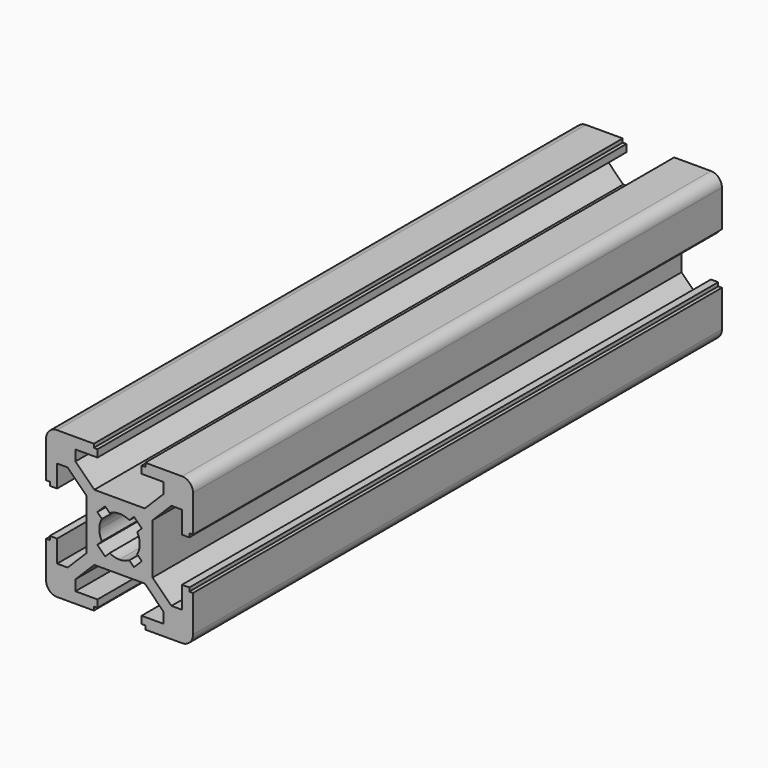
from build123d import *

# Parameters (mm, degrees)
F1_DEPTH = 90


with BuildPart() as f1:
    # F0 (on Front) → F1 (new body)
    with BuildSketch(Plane.XZ):
        with BuildLine():
            Line((3.43934, 4.5), (0, 4.5))
            Line((0, 4.5), (-3.43934, 4.5))
            Line((-3.43934, 4.5), (-6, 7.06066))
            Line((-6, 7.06066), (-6, 8.5))
            Line((-6, 8.5), (-3, 8.5))
            Line((-3, 8.5), (-3, 9.5))
            Line((-3, 9.5), (-3.5, 9.5))
            Line((-3.5, 9.5), (-3.5, 10))
            Line((-3.5, 10), (-8.5, 10))
            ThreePointArc((-8.5, 10), (-9.56066, 9.56066), (-10, 8.5))
            Line((-10, 8.5), (-10, 3.5))
            Line((-10, 3.5), (-9.5, 3.5))
            Line((-9.5, 3.5), (-9.5, 3))
            Line((-9.5, 3), (-8.5, 3))
            Line((-8.5, 3), (-8.5, 6))
            Line((-8.5, 6), (-7.06066, 6))
            Line((-7.06066, 6), (-4.5, 3.43934))
            Line((-4.5, 3.43934), (-4.5, 0))
            Line((-4.5, 0), (-4.5, -3.43934))
            Line((-4.5, -3.43934), (-7.06066, -6))
            Line((-7.06066, -6), (-8.5, -6))
            Line((-8.5, -6), (-8.5, -3))
            Line((-8.5, -3), (-9.5, -3))
            Line((-9.5, -3), (-9.5, -3.5))
            Line((-9.5, -3.5), (-10, -3.5))
            Line((-10, -3.5), (-10, -8.5))
            ThreePointArc((-10, -8.5), (-9.56066, -9.56066), (-8.5, -10))
            Line((-8.5, -10), (-3.5, -10))
            Line((-3.5, -10), (-3.5, -9.5))
            Line((-3.5, -9.5), (-3, -9.5))
            Line((-3, -9.5), (-3, -8.5))
            Line((-3, -8.5), (-6, -8.5))
            Line((-6, -8.5), (-6, -7.06066))
            Line((-6, -7.06066), (-3.43934, -4.5))
            Line((-3.43934, -4.5), (0, -4.5))
            Line((0, -4.5), (3.43934, -4.5))
            Line((3.43934, -4.5), (6, -7.06066))
            Line((6, -7.06066), (6, -8.5))
            Line((6, -8.5), (3, -8.5))
            Line((3, -8.5), (3, -9.5))
            Line((3, -9.5), (3.5, -9.5))
            Line((3.5, -9.5), (3.5, -10))
            Line((3.5, -10), (8.5, -10))
            ThreePointArc((8.5, -10), (9.56066, -9.56066), (10, -8.5))
            Line((10, -8.5), (10, -3.5))
            Line((10, -3.5), (9.5, -3.5))
            Line((9.5, -3.5), (9.5, -3))
            Line((9.5, -3), (8.5, -3))
            Line((8.5, -3), (8.5, -6))
            Line((8.5, -6), (7.06066, -6))
            Line((7.06066, -6), (4.5, -3.43934))
            Line((4.5, -3.43934), (4.5, 0))
            Line((4.5, 0), (4.5, 3.43934))
            Line((4.5, 3.43934), (7.06066, 6))
            Line((7.06066, 6), (8.5, 6))
            Line((8.5, 6), (8.5, 3))
            Line((8.5, 3), (9.5, 3))
            Line((9.5, 3), (9.5, 3.5))
            Line((9.5, 3.5), (10, 3.5))
            Line((10, 3.5), (10, 8.5))
            ThreePointArc((10, 8.5), (9.56066, 9.56066), (8.5, 10))
            Line((8.5, 10), (3.5, 10))
            Line((3.5, 10), (3.5, 9.5))
            Line((3.5, 9.5), (3, 9.5))
            Line((3, 9.5), (3, 8.5))
            Line((3, 8.5), (6, 8.5))
            Line((6, 8.5), (6, 7.06066))
            Line((6, 7.06066), (3.43934, 4.5))
        make_face()
        with BuildLine():
            ThreePointArc((-1.340499, 2.401159), (-0.692573, 2.661361), (0, 2.75))
            ThreePointArc((0, 2.75), (0.692573, 2.661361), (1.340499, 2.401159))
            Line((1.340499, 2.401159), (1.962753, 3.023413))
            Line((1.962753, 3.023413), (3.023413, 1.962753))
            Line((3.023413, 1.962753), (2.401159, 1.340499))
            ThreePointArc((2.401159, 1.340499), (2.661361, 0.692573), (2.75, 0))
            ThreePointArc((2.75, 0), (2.661361, -0.692573), (2.401159, -1.340499))
            Line((2.401159, -1.340499), (3.023413, -1.962753))
            Line((3.023413, -1.962753), (1.962753, -3.023413))
            Line((1.962753, -3.023413), (1.340499, -2.401159))
            ThreePointArc((1.340499, -2.401159), (0.692573, -2.661361), (0, -2.75))
            ThreePointArc((0, -2.75), (-0.692573, -2.661361), (-1.340499, -2.401159))
            Line((-1.340499, -2.401159), (-1.962753, -3.023413))
            Line((-1.962753, -3.023413), (-3.023413, -1.962753))
            Line((-3.023413, -1.962753), (-2.401159, -1.340499))
            ThreePointArc((-2.401159, -1.340499), (-2.661361, -0.692573), (-2.75, 0))
            ThreePointArc((-2.75, 0), (-2.661361, 0.692573), (-2.401159, 1.340499))
            Line((-2.401159, 1.340499), (-3.023413, 1.962753))
            Line((-3.023413, 1.962753), (-1.962753, 3.023413))
            Line((-1.962753, 3.023413), (-1.340499, 2.401159))
        make_face(mode=Mode.SUBTRACT)
    extrude(amount=F1_DEPTH)


solid = f1.part
